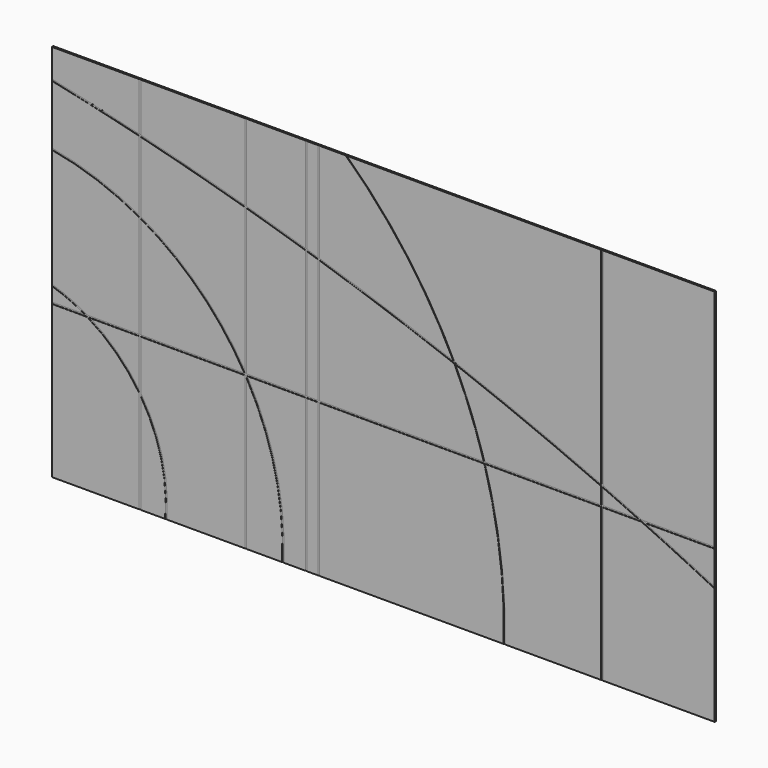
from build123d import *

# Parameters (mm, degrees)
F0_W     = 1778
F0_H     = 1016
F2_DEPTH = 4.7625
F5_W     = 0.900725
F5_H     = 4.7625
F5_W_2   = 0.6569
F5_W_3   = 0.717273
F5_W_4   = 0.952243
F4_W     = 4.7625
F4_H     = 0.79375
F4_H_2   = 0.751808
F4_H_3   = 1.427914
F4_H_4   = 0.774066
F4_H_5   = 1.005396


with BuildPart() as f2:
    # F0 (on Front) → F2 (new body)
    with BuildSketch(Plane.XZ):
        Rectangle(F0_W, F0_H)
    extrude(amount=-F2_DEPTH)

    # F6: sweep along a path in F1
    with BuildLine(Plane.XZ) as f6_path:
        Line((-1508.25165, -94.801787), (1014.936209, -94.801787))
    # F5 (on face) → F6 (sweep, cut)
    with BuildSketch(Plane(origin=(-889, 0, 0), x_dir=(0, -1, 0), z_dir=(-1, 0, 0))):
        with Locations((-0.450362, -96.800402)):
            Rectangle(F5_W, F5_H)
    sweep(path=f6_path.line, mode=Mode.SUBTRACT)

    # F7: sweep along a path in F1
    with BuildLine(Plane.XZ) as f7_path:
        CenterArc((-1017.430167, -470.993283), 434.971271, 0, 360)
    # F5 (on face) → F7 (sweep, cut)
    with BuildSketch(Plane(origin=(-889, 0, 0), x_dir=(0, -1, 0), z_dir=(-1, 0, 0))):
        with Locations((-0.32845, -54.416887)):
            Rectangle(F5_W_2, F5_H)
    sweep(path=f7_path.line, mode=Mode.SUBTRACT)

    # F8: sweep along a path in F1
    with BuildLine(Plane.XZ) as f8_path:
        CenterArc((-1017.430167, -470.993283), 750.006705, 0, 360)
    # F5 (on face) → F8 (sweep, cut)
    with BuildSketch(Plane(origin=(-889, 0, 0), x_dir=(0, -1, 0), z_dir=(-1, 0, 0))):
        with Locations((-0.358636, 267.135382)):
            Rectangle(F5_W_3, F5_H)
    sweep(path=f8_path.line, mode=Mode.SUBTRACT)

    # F9: sweep along a path in F1
    with BuildLine(Plane.XZ) as f9_path:
        CenterArc((-2455.270037, -6911.529903), 7513.949049, 0, 360)
    # F5 (on face) → F9 (sweep, cut)
    with BuildSketch(Plane(origin=(-889, 0, 0), x_dir=(0, -1, 0), z_dir=(-1, 0, 0))):
        with Locations((-0.476121, 430.132806)):
            Rectangle(F5_W_4, F5_H)
    sweep(path=f9_path.line, mode=Mode.SUBTRACT)

    # F10: sweep along a path in F1
    with BuildLine(Plane.XZ) as f10_path:
        Line((-652.666131, -953.205862), (-652.666131, 718.080851))
    # F4 (on face) → F10 (sweep, cut)
    with BuildSketch(Plane.XY.offset(508)):
        with Locations((-652.959764, 0.396875)):
            Rectangle(F4_W, F4_H)
        with Locations((-368.970394, 0.396875)):
            Rectangle(F4_W, F4_H)
        with Locations((-173.034057, 0.375904)):
            Rectangle(F4_W, F4_H_2)
    sweep(path=f10_path.line, mode=Mode.SUBTRACT)

    # F11: sweep along a path in F1
    with BuildLine(Plane.XZ) as f11_path:
        CenterArc((-1017.430167, -470.993283), 1344.107572, 0, 360)
    # F4 (on face) → F11 (sweep, cut)
    with BuildSketch(Plane.XY.offset(508)):
        with Locations((-98.463781, 0.713957)):
            Rectangle(F4_W, F4_H_3)
    sweep(path=f11_path.line, mode=Mode.SUBTRACT)

    # F12: sweep along a path in F1
    with BuildLine(Plane.XZ) as f12_path:
        Line((-206.408303, -953.205862), (-206.408303, 550.754517))
    # F4 (on face) → F12 (sweep, cut)
    with BuildSketch(Plane.XY.offset(508)):
        with Locations((-206.702034, 0.387033)):
            Rectangle(F4_W, F4_H_4)
    sweep(path=f12_path.line, mode=Mode.SUBTRACT)

    # F13: sweep along a path in F1
    with BuildLine(Plane.XZ) as f13_path:
        Line((586.232834, -953.205862), (586.232834, 596.92783))
    # F4 (on face) → F13 (sweep, cut)
    with BuildSketch(Plane.XY.offset(508)):
        with Locations((587.047129, 0.502698)):
            Rectangle(F4_W, F4_H_5)
    sweep(path=f13_path.line, mode=Mode.SUBTRACT)


solid = f2.part
